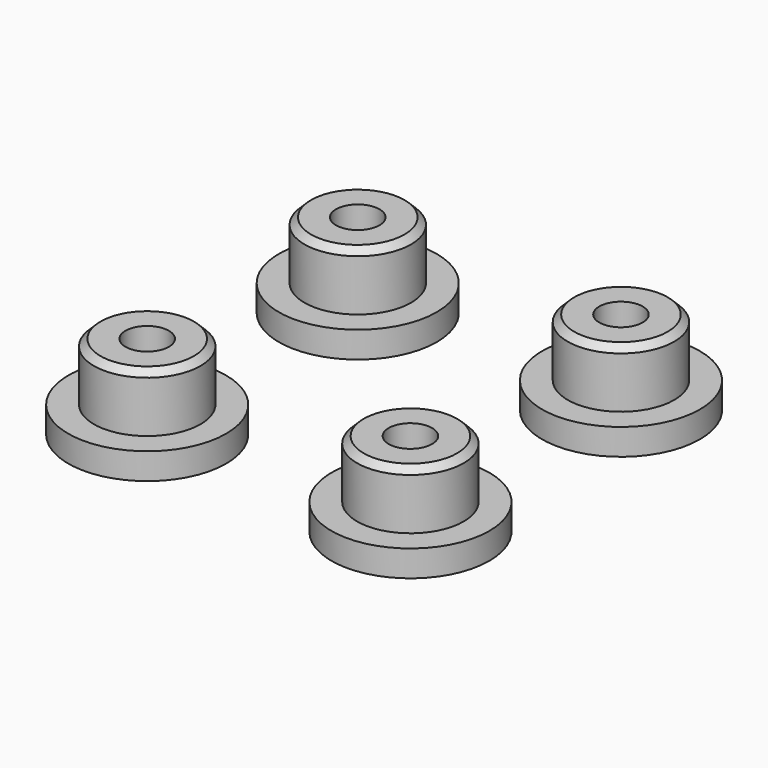
from build123d import *

# Parameters (mm, degrees)
F0_R      = 6
F0_R_2    = 1.65
F1_DEPTH  = 2
F2_R      = 4.05
F2_R_2    = 1.65
F3_DEPTH  = 4.4
F4_SIZE   = 0.5
F4_2_SIZE = 0.5
F4_3_SIZE = 0.5
F4_4_SIZE = 0.5


with BuildPart() as f1:
    # F0 (on Top) → F1 (new body)
    with BuildSketch(Plane.XY):
        with Locations((-10, 10)):
            Circle(F0_R)
        with Locations((-10, 10)):
            Circle(F0_R_2, mode=Mode.SUBTRACT)
    extrude(amount=F1_DEPTH)

    # F2 (on face) → F3 (join)
    with BuildSketch(Plane.XY.offset(2)):
        with Locations((-10, 10)):
            Circle(F2_R)
        with Locations((-10, 10)):
            Circle(F2_R_2, mode=Mode.SUBTRACT)
    extrude(amount=F3_DEPTH)

    # F4#3
    f4_3_edges = [f1.edges().sort_by_distance(p)[0] for p in [
        (-14.05, 10, 6.4),
    ]]
    chamfer(f4_3_edges, length=F4_3_SIZE)


with BuildPart() as f1b:
    # F0 (on Top) → F1, piece 2 (new body)
    with BuildSketch(Plane.XY):
        with Locations((10, 10)):
            Circle(F0_R)
        with Locations((10, 10)):
            Circle(F0_R_2, mode=Mode.SUBTRACT)
    extrude(amount=F1_DEPTH)

    # F2 (on face) → F3, piece 2 (join)
    with BuildSketch(Plane.XY.offset(2)):
        with Locations((10, 10)):
            Circle(F2_R)
        with Locations((10, 10)):
            Circle(F2_R_2, mode=Mode.SUBTRACT)
    extrude(amount=F3_DEPTH)

    # F4#2
    f4_2_edges = [f1b.edges().sort_by_distance(p)[0] for p in [
        (5.95, 10, 6.4),
    ]]
    chamfer(f4_2_edges, length=F4_2_SIZE)


with BuildPart() as f1c:
    # F0 (on Top) → F1, piece 3 (new body)
    with BuildSketch(Plane.XY):
        with Locations((10, -10)):
            Circle(F0_R)
        with Locations((10, -10)):
            Circle(F0_R_2, mode=Mode.SUBTRACT)
    extrude(amount=F1_DEPTH)

    # F2 (on face) → F3, piece 3 (join)
    with BuildSketch(Plane.XY.offset(2)):
        with Locations((10, -10)):
            Circle(F2_R)
        with Locations((10, -10)):
            Circle(F2_R_2, mode=Mode.SUBTRACT)
    extrude(amount=F3_DEPTH)

    # F4
    f4_edges = [f1c.edges().sort_by_distance(p)[0] for p in [
        (5.95, -10, 6.4),
    ]]
    chamfer(f4_edges, length=F4_SIZE)


with BuildPart() as f1d:
    # F0 (on Top) → F1, piece 4 (new body)
    with BuildSketch(Plane.XY):
        with Locations((-10, -10)):
            Circle(F0_R)
        with Locations((-10, -10)):
            Circle(F0_R_2, mode=Mode.SUBTRACT)
    extrude(amount=F1_DEPTH)

    # F2 (on face) → F3, piece 4 (join)
    with BuildSketch(Plane.XY.offset(2)):
        with Locations((-10, -10)):
            Circle(F2_R)
        with Locations((-10, -10)):
            Circle(F2_R_2, mode=Mode.SUBTRACT)
    extrude(amount=F3_DEPTH)

    # F4#4
    f4_4_edges = [f1d.edges().sort_by_distance(p)[0] for p in [
        (-14.05, -10, 6.4),
    ]]
    chamfer(f4_4_edges, length=F4_4_SIZE)


solid = Compound([f1.part, f1b.part, f1c.part, f1d.part])
